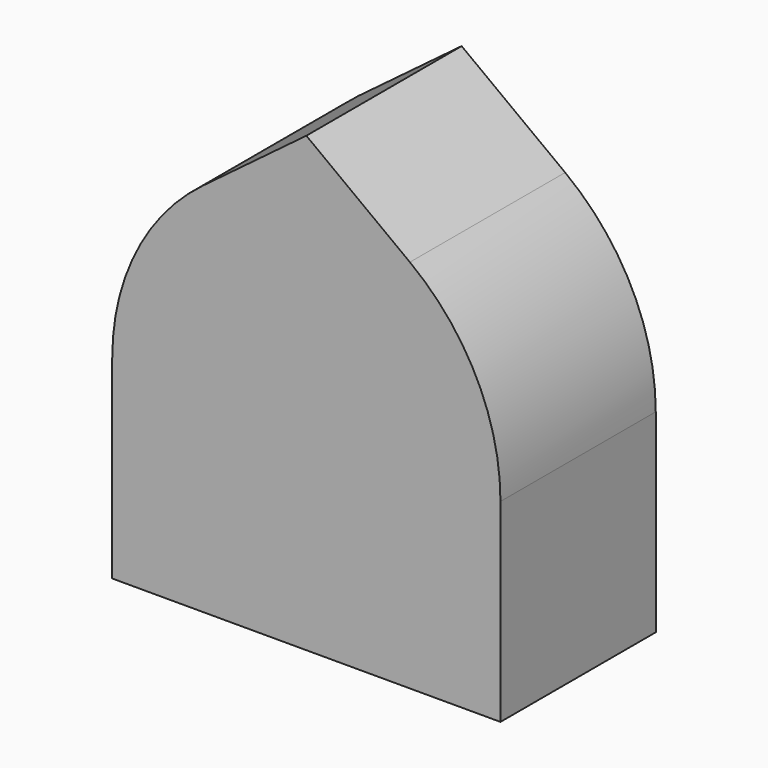
from build123d import *

# Parameters (mm, degrees)
F1_DEPTH = 152.4


with BuildPart() as f1:
    # F0 (on Front) → F1 (new body)
    with BuildSketch(Plane.XZ):
        with BuildLine():
            Line((-152.4, 152.4), (-152.4, 0))
            Line((-152.4, 0), (152.4, 0))
            Line((152.4, 0), (152.4, 152.4))
            ThreePointArc((152.4, 152.4), (133.629155, 231.914577), (81.28, 294.64))
            Line((81.28, 294.64), (0, 355.6))
            Line((0, 355.6), (-81.28, 294.64))
            ThreePointArc((-81.28, 294.64), (-133.629155, 231.914577), (-152.4, 152.4))
        make_face()
    extrude(amount=F1_DEPTH)


solid = f1.part
